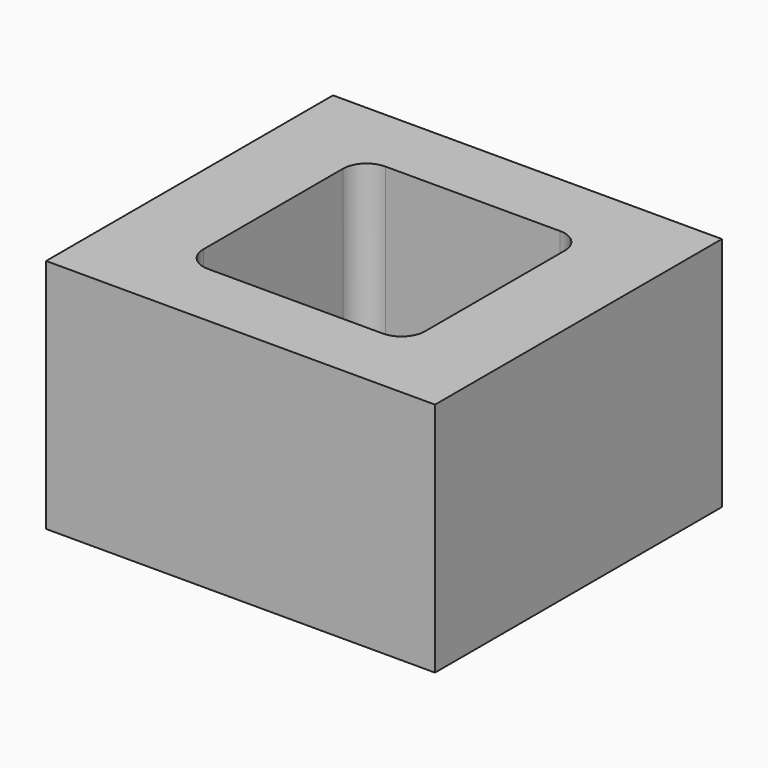
from build123d import *

# Parameters (mm, degrees)
F0_W     = 82.416646
F0_H     = 75.996064
F1_DEPTH = 50


with BuildPart() as f1:
    # F0 (on Top) → F1 (new body)
    with BuildSketch(Plane.XY):
        Rectangle(F0_W, F0_H)
        with BuildLine():
            ThreePointArc((23.5, -18.5), (22.035534, -22.035534), (18.5, -23.5))
            Line((18.5, -23.5), (-18.5, -23.5))
            ThreePointArc((-18.5, -23.5), (-22.035534, -22.035534), (-23.5, -18.5))
            Line((-23.5, -18.5), (-23.5, 18.5))
            ThreePointArc((-23.5, 18.5), (-22.035534, 22.035534), (-18.5, 23.5))
            Line((-18.5, 23.5), (18.5, 23.5))
            ThreePointArc((18.5, 23.5), (22.035534, 22.035534), (23.5, 18.5))
            Line((23.5, 18.5), (23.5, -18.5))
        make_face(mode=Mode.SUBTRACT)
    extrude(amount=F1_DEPTH)


solid = f1.part
